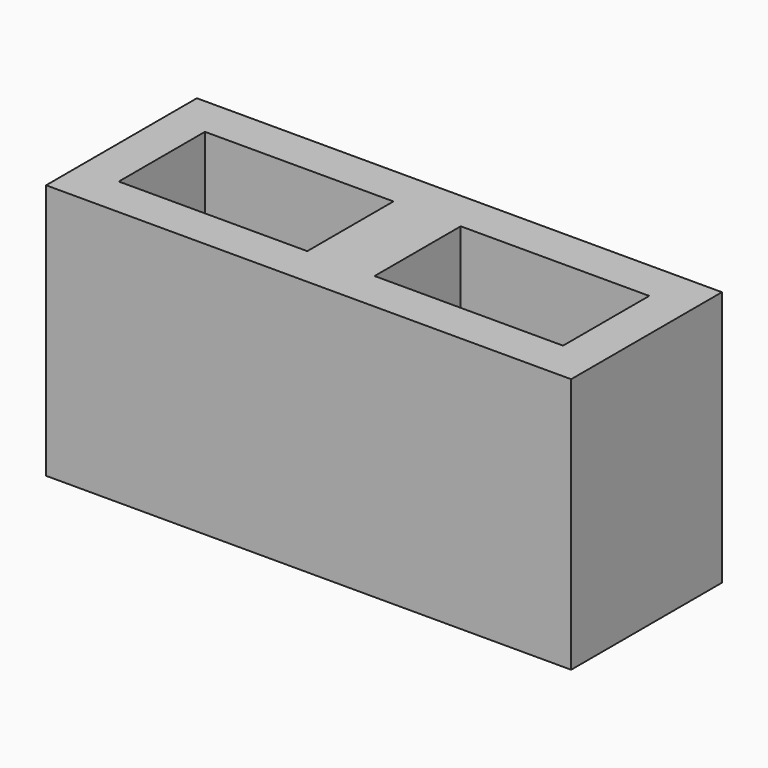
from build123d import *

# Parameters (mm, degrees)
BOX035_W     = 140
BOX035_H     = 80
BOX035_DEPTH = 190
BOX036_W     = 140
BOX036_H     = 80
BOX036_DEPTH = 190
BOX037_W     = 390
BOX037_H     = 140
BOX037_DEPTH = 190


with BuildPart() as cube025:
    # Box035 → Box035 (new body)
    with BuildSketch(Plane(origin=(220, 30, 0), x_dir=(1, 0, 0), z_dir=(0, 0, 1))):
        with Locations((70, 40)):
            Rectangle(BOX035_W, BOX035_H)
    extrude(amount=BOX035_DEPTH)


with BuildPart() as fusion011:
    # Box036 → Box036 (new body)
    with BuildSketch(Plane(origin=(30, 30, 0), x_dir=(1, 0, 0), z_dir=(0, 0, 1))):
        with Locations((70, 40)):
            Rectangle(BOX036_W, BOX036_H)
    extrude(amount=BOX036_DEPTH)

    # Fusion011: union Cube025
    add(cube025.part)


with BuildPart() as cut008:
    # Box037 → Box037 (new body)
    with BuildSketch(Plane.XY):
        with Locations((195, 70)):
            Rectangle(BOX037_W, BOX037_H)
    extrude(amount=BOX037_DEPTH)

    # Cut008: cut Fusion011
    add(fusion011.part, mode=Mode.SUBTRACT)


with BuildPart() as cut008_1:
    # Cut008 placement: moved
    add(cut008.part.moved(Location((630, 445, -790))))


solid = cut008_1.part
